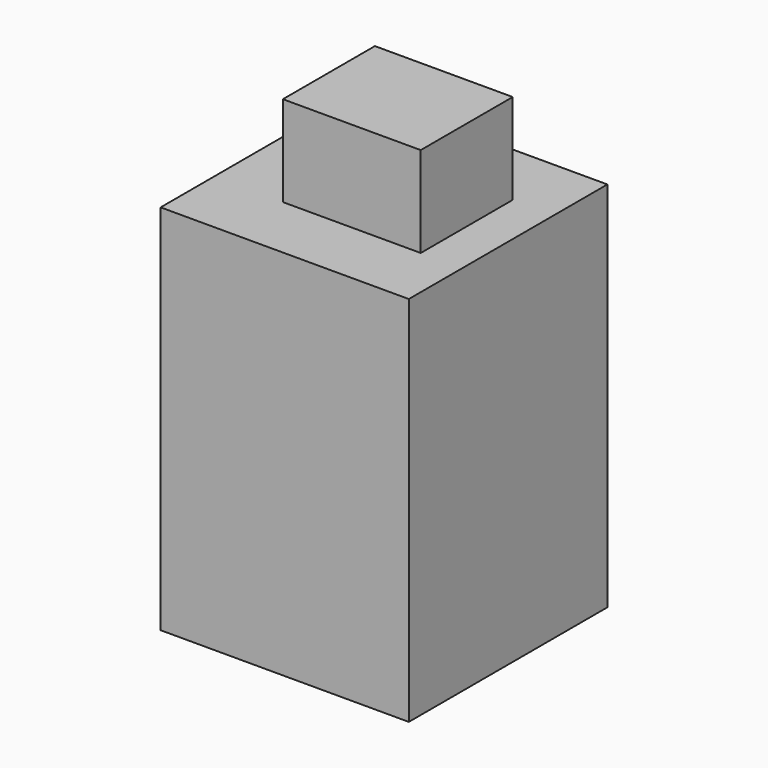
from build123d import *

# Parameters (mm, degrees)
F0_W     = 50.8
F0_H     = 50.8
F1_DEPTH = 76.2
F2_W     = 28.211626
F2_H     = 23.540352
F3_DEPTH = 94.742


with BuildPart() as f1:
    # F0 (on Top) → F1 (new body)
    with BuildSketch(Plane.XY):
        Rectangle(F0_W, F0_H)
    extrude(amount=F1_DEPTH)

    # F2 (on Top) → F3 (join)
    with BuildSketch(Plane.XY):
        with Locations((2.824979, 0)):
            Rectangle(F2_W, F2_H)
    extrude(amount=F3_DEPTH)


solid = f1.part
